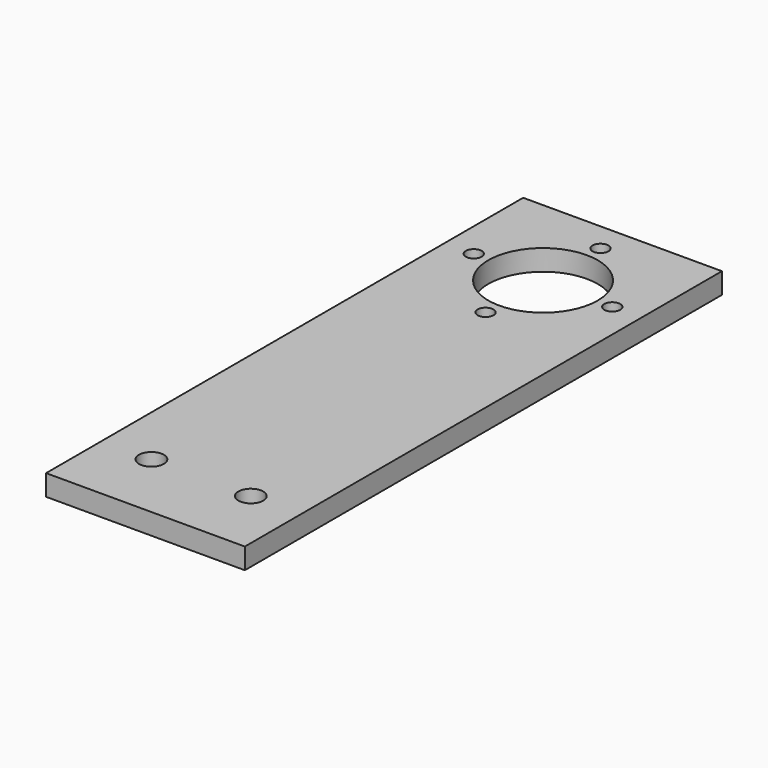
from build123d import *

# Parameters (mm, degrees)
F0_W     = 50.8
F0_H     = 152.4
F0_R     = 3.175
F0_R_2   = 2.032
F0_R_3   = 13.97
F1_DEPTH = 5.334
F2_R     = 3.175
F3_DEPTH = 25.4


with BuildPart() as f1:
    # F0 (on Top) → F1 (new body)
    with BuildSketch(Plane.XY):
        with Locations((-18.054181, 9.979866)):
            Rectangle(F0_W, F0_H)
        with Locations((-30.754181, -48.440134)):
            Circle(F0_R, mode=Mode.SUBTRACT)
        with Locations((-5.354181, -48.440134)):
            Circle(F0_R, mode=Mode.SUBTRACT)
        with Locations((-18.377712, 42.822066)):
            Circle(F0_R_2, mode=Mode.SUBTRACT)
        with Locations((-36.011981, 61.103397)):
            Circle(F0_R_2, mode=Mode.SUBTRACT)
        with Locations((-18.054181, 60.779866)):
            Circle(F0_R_3, mode=Mode.SUBTRACT)
        with Locations((-17.730651, 78.737666)):
            Circle(F0_R_2, mode=Mode.SUBTRACT)
        with Locations((-0.096381, 60.456336)):
            Circle(F0_R_2, mode=Mode.SUBTRACT)
    extrude(amount=F1_DEPTH)

    # F2 (on face) → F3 (cut)
    with BuildSketch(Plane(origin=(0, 0, 0), x_dir=(1, 0, 0), z_dir=(0, 0, -1))):
        with Locations((-5.354181, 48.440134)):
            Circle(F2_R)
        with Locations((-30.754181, 48.440134)):
            Circle(F2_R)
    extrude(amount=-F3_DEPTH, mode=Mode.SUBTRACT)


solid = f1.part
